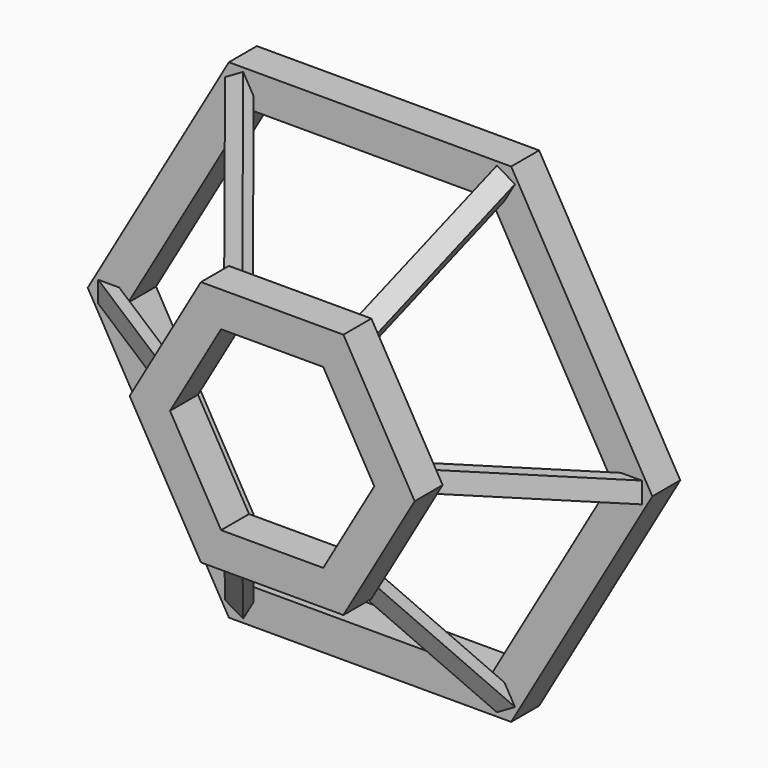
from build123d import *

# Parameters (mm, degrees)
F1_W      = 10
F1_H      = 10
F1_W_2    = 6
F1_H_2    = 6
F5_W      = 10
F5_H      = 10
F5_W_2    = 6
F5_H_2    = 6
F8_DEPTH  = 3
F10_COUNT = 6


with BuildPart() as f2:
    # F2: sweep along a path in F0
    with BuildLine(Plane.XZ) as f2_path:
        Line((-37.5, 64.9519052838), (37.5, 64.9519052838))
        Line((37.5, 64.9519052838), (75, 0))
        Line((75, 0), (37.5, -64.9519052838))
        Line((37.5, -64.9519052838), (-37.5, -64.9519052838))
        Line((-37.5, -64.9519052838), (-75, 0))
        Line((-75, 0), (-37.5, 64.9519052838))
    # F1 (on Right) → F2 (sweep)
    with BuildSketch(Plane.YZ):
        with Locations((0, 64.9519052838)):
            Rectangle(F1_W, F1_H)
        with Locations((0, 64.9519052838)):
            Rectangle(F1_W_2, F1_H_2, mode=Mode.SUBTRACT)
    sweep(path=f2_path.line, transition=Transition.RIGHT)



with BuildPart() as f6:
    # F6: sweep along a path in F4
    with BuildLine(Plane.XZ.offset(35)) as f6_path:
        Line((17.5, -30.3108891325), (-17.5, -30.3108891325))
        Line((-17.5, -30.3108891325), (-35, 0))
        Line((-35, 0), (-17.5, 30.3108891325))
        Line((-17.5, 30.3108891325), (17.5, 30.3108891325))
        Line((17.5, 30.3108891325), (35, 0))
        Line((35, 0), (17.5, -30.3108891325))
    # F5 (on Right) → F6 (sweep)
    with BuildSketch(Plane.YZ):
        with Locations((-35, -30.3108891325)):
            Rectangle(F5_W, F5_H)
        with Locations((-35, -30.3108891325)):
            Rectangle(F5_W_2, F5_H_2, mode=Mode.SUBTRACT)
    sweep(path=f6_path.line, transition=Transition.RIGHT)


with BuildPart() as f2_1:
    add(f2.part)

    add(f6.part)  # F8 merges F6
    # F7 (on Top) → F8 (join, symmetric)
    with BuildSketch(Plane.XY):
        Polygon((71.7735026919, -5), (32.2735026919, -30), (38.2735026919, -30), (77.7735026919, -5), align=None)
    extrude(amount=F8_DEPTH, both=True)

    # F10: F2 ×6 about axis
    f10_axis = Axis((0, -16.170989722, 0), (0, 1, 0))


with BuildPart() as f2_2:
    add(f2_1.part)
    for i in range(1, F10_COUNT):
        add(f2_1.part.rotate(f10_axis, i * 360 / F10_COUNT))


solid = f2_2.part
